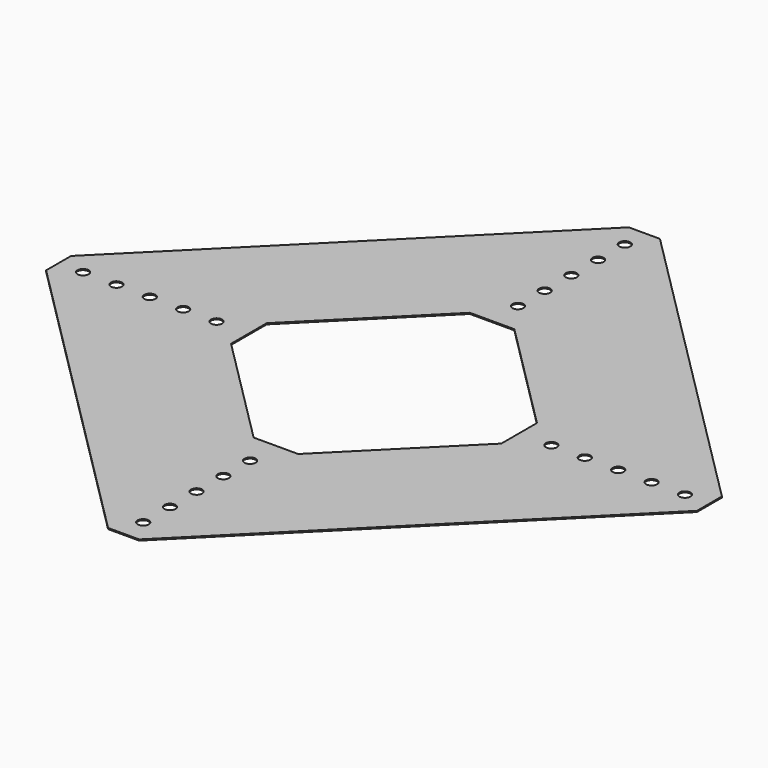
from build123d import *

# Parameters (mm, degrees)
F0_R     = 2.5
F1_DEPTH = 0.5


with BuildPart() as f1:
    # F0 (on Top) → F1 (new body)
    with BuildSketch(Plane.XY):
        Polygon((-7, -146.21), (7, -146.21), (146.21, -7), (146.21, 7), (7, 146.21), (-7, 146.21), (-146.21, 7), (-146.21, -7), align=None)
        with Locations((0, -135.21)):
            Circle(F0_R, mode=Mode.SUBTRACT)
        with Locations((0, -120.21)):
            Circle(F0_R, mode=Mode.SUBTRACT)
        with Locations((0, -105.21)):
            Circle(F0_R, mode=Mode.SUBTRACT)
        with Locations((0, -90.21)):
            Circle(F0_R, mode=Mode.SUBTRACT)
        with Locations((0, -75.21)):
            Circle(F0_R, mode=Mode.SUBTRACT)
        with Locations((-135.21, 0)):
            Circle(F0_R, mode=Mode.SUBTRACT)
        with Locations((-120.21, 0)):
            Circle(F0_R, mode=Mode.SUBTRACT)
        with Locations((-105.21, 0)):
            Circle(F0_R, mode=Mode.SUBTRACT)
        with Locations((-90.21, 0)):
            Circle(F0_R, mode=Mode.SUBTRACT)
        with Locations((-75.21, 0)):
            Circle(F0_R, mode=Mode.SUBTRACT)
        Polygon((60.71, 10), (60.71, -10), (10, -60.71), (-10, -60.71), (-60.71, -10), (-60.71, 10), (-10, 60.71), (10, 60.71), align=None, mode=Mode.SUBTRACT)
        with Locations((75.21, 0)):
            Circle(F0_R, mode=Mode.SUBTRACT)
        with Locations((90.21, 0)):
            Circle(F0_R, mode=Mode.SUBTRACT)
        with Locations((105.21, 0)):
            Circle(F0_R, mode=Mode.SUBTRACT)
        with Locations((120.21, 0)):
            Circle(F0_R, mode=Mode.SUBTRACT)
        with Locations((135.21, 0)):
            Circle(F0_R, mode=Mode.SUBTRACT)
        with Locations((0, 75.21)):
            Circle(F0_R, mode=Mode.SUBTRACT)
        with Locations((0, 90.21)):
            Circle(F0_R, mode=Mode.SUBTRACT)
        with Locations((0, 105.21)):
            Circle(F0_R, mode=Mode.SUBTRACT)
        with Locations((0, 120.21)):
            Circle(F0_R, mode=Mode.SUBTRACT)
        with Locations((0, 135.21)):
            Circle(F0_R, mode=Mode.SUBTRACT)
    extrude(amount=F1_DEPTH)


solid = f1.part
